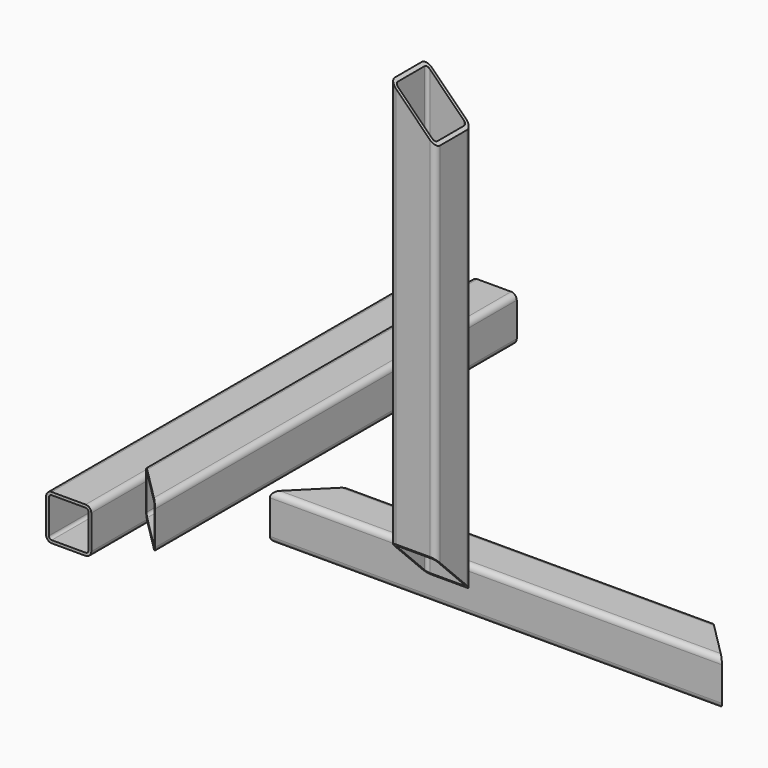
from build123d import *

# Parameters (mm, degrees)
F1_DEPTH  = 400
F3_DEPTH  = 400
F5_DEPTH  = 40
F7_DEPTH  = 40
F9_DEPTH  = 40
F11_DEPTH = 400
F13_DEPTH = 163.2715079019
F15_DEPTH = 400
F17_DEPTH = 274.6330855618
F19_DEPTH = 312.6438318024
F20_DEPTH = 400


with BuildPart() as f1:
    # F0 (on Front) → F1 (new body)
    with BuildSketch(Plane.XZ):
        with BuildLine():
            ThreePointArc((0, 5), (1.4644660941, 1.4644660941), (5, 0))
            Line((5, 0), (35, 0))
            ThreePointArc((35, 0), (38.5355339059, 1.4644660941), (40, 5))
            Line((40, 5), (40, 35))
            ThreePointArc((40, 35), (38.5355339059, 38.5355339059), (35, 40))
            Line((35, 40), (5, 40))
            ThreePointArc((5, 40), (1.4644660941, 38.5355339059), (0, 35))
            Line((0, 35), (0, 5))
        make_face()
        with BuildLine():
            Line((35, 2.5), (5, 2.5))
            ThreePointArc((5, 2.5), (3.232233047, 3.232233047), (2.5, 5))
            Line((2.5, 5), (2.5, 35))
            ThreePointArc((2.5, 35), (3.232233047, 36.767766953), (5, 37.5))
            Line((5, 37.5), (35, 37.5))
            ThreePointArc((35, 37.5), (36.767766953, 36.767766953), (37.5, 35))
            Line((37.5, 35), (37.5, 5))
            ThreePointArc((37.5, 5), (36.767766953, 3.232233047), (35, 2.5))
        make_face(mode=Mode.SUBTRACT)
    extrude(amount=F1_DEPTH)

    # F4 (on face) → F5 (cut)
    with BuildSketch(Plane.XY.offset(40)):
        Polygon((40, -400), (40, -360), (0, -400), align=None)
    extrude(amount=-F5_DEPTH, mode=Mode.SUBTRACT)

    # F6 (on face) → F7 (cut)
    with BuildSketch(Plane.YZ.offset(40)):
        Polygon((0, 40), (-40, 40), (0, 0), align=None)
    extrude(amount=-F7_DEPTH, mode=Mode.SUBTRACT)

    # F0 (on Front) → F20 (join)
    with BuildSketch(Plane.XZ):
        with BuildLine():
            ThreePointArc((0, 5), (1.4644660941, 1.4644660941), (5, 0))
            Line((5, 0), (35, 0))
            ThreePointArc((35, 0), (38.5355339059, 1.4644660941), (40, 5))
            Line((40, 5), (40, 35))
            ThreePointArc((40, 35), (38.5355339059, 38.5355339059), (35, 40))
            Line((35, 40), (5, 40))
            ThreePointArc((5, 40), (1.4644660941, 38.5355339059), (0, 35))
            Line((0, 35), (0, 5))
        make_face()
        with BuildLine():
            Line((35, 2.5), (5, 2.5))
            ThreePointArc((5, 2.5), (3.232233047, 3.232233047), (2.5, 5))
            Line((2.5, 5), (2.5, 35))
            ThreePointArc((2.5, 35), (3.232233047, 36.767766953), (5, 37.5))
            Line((5, 37.5), (35, 37.5))
            ThreePointArc((35, 37.5), (36.767766953, 36.767766953), (37.5, 35))
            Line((37.5, 35), (37.5, 5))
            ThreePointArc((37.5, 5), (36.767766953, 3.232233047), (35, 2.5))
        make_face(mode=Mode.SUBTRACT)
    extrude(amount=F20_DEPTH)


with BuildPart() as f3:
    # F2 (on Right) → F3 (new body)
    with BuildSketch(Plane.YZ):
        with BuildLine():
            ThreePointArc((-152.5273066759, -96.7268937826), (-151.0628405818, -100.2624276885), (-147.5273066759, -101.7268937826))
            Line((-147.5273066759, -101.7268937826), (-117.5273066759, -101.7268937826))
            ThreePointArc((-117.5273066759, -101.7268937826), (-113.99177277, -100.2624276885), (-112.5273066759, -96.7268937826))
            Line((-112.5273066759, -96.7268937826), (-112.5273066759, -66.7268937826))
            ThreePointArc((-112.5273066759, -66.7268937826), (-113.99177277, -63.1913598767), (-117.5273066759, -61.7268937826))
            Line((-117.5273066759, -61.7268937826), (-147.5273066759, -61.7268937826))
            ThreePointArc((-147.5273066759, -61.7268937826), (-151.0628405818, -63.1913598767), (-152.5273066759, -66.7268937826))
            Line((-152.5273066759, -66.7268937826), (-152.5273066759, -96.7268937826))
        make_face()
        with BuildLine():
            Line((-117.5273066759, -99.2268937826), (-147.5273066759, -99.2268937826))
            ThreePointArc((-147.5273066759, -99.2268937826), (-149.2950736289, -98.4946607356), (-150.0273066759, -96.7268937826))
            Line((-150.0273066759, -96.7268937826), (-150.0273066759, -66.7268937826))
            ThreePointArc((-150.0273066759, -66.7268937826), (-149.2950736289, -64.9591268296), (-147.5273066759, -64.2268937826))
            Line((-147.5273066759, -64.2268937826), (-117.5273066759, -64.2268937826))
            ThreePointArc((-117.5273066759, -64.2268937826), (-115.7595397229, -64.9591268296), (-115.0273066759, -66.7268937826))
            Line((-115.0273066759, -66.7268937826), (-115.0273066759, -96.7268937826))
            ThreePointArc((-115.0273066759, -96.7268937826), (-115.7595397229, -98.4946607356), (-117.5273066759, -99.2268937826))
        make_face(mode=Mode.SUBTRACT)
    extrude(amount=F3_DEPTH)

    # F8 (on face) → F9 (cut)
    with BuildSketch(Plane.XY.offset(-61.7268937826)):
        Polygon((40, -112.5273066759), (0, -112.5273066759), (0, -152.5273066759), align=None)
        Polygon((400, -112.5273066759), (360, -112.5273066759), (400, -152.5273066759), align=None)
    extrude(amount=-F9_DEPTH, mode=Mode.SUBTRACT)


with BuildPart() as f11:
    # F10 (on Front) → F11 (new body)
    with BuildSketch(Plane.XZ):
        with BuildLine():
            ThreePointArc((56.4591023326, 26.5436141193), (57.9235684267, 23.0080802134), (61.4591023326, 21.5436141193))
            Line((61.4591023326, 21.5436141193), (91.4591023326, 21.5436141193))
            ThreePointArc((91.4591023326, 21.5436141193), (94.9946362385, 23.0080802134), (96.4591023326, 26.5436141193))
            Line((96.4591023326, 26.5436141193), (96.4591023326, 56.5436141193))
            ThreePointArc((96.4591023326, 56.5436141193), (94.9946362385, 60.0791480252), (91.4591023326, 61.5436141193))
            Line((91.4591023326, 61.5436141193), (61.4591023326, 61.5436141193))
            ThreePointArc((61.4591023326, 61.5436141193), (57.9235684267, 60.0791480252), (56.4591023326, 56.5436141193))
            Line((56.4591023326, 56.5436141193), (56.4591023326, 26.5436141193))
        make_face()
        with BuildLine():
            Line((91.4591023326, 24.0436141193), (61.4591023326, 24.0436141193))
            ThreePointArc((61.4591023326, 24.0436141193), (59.6913353796, 24.7758471663), (58.9591023326, 26.5436141193))
            Line((58.9591023326, 26.5436141193), (58.9591023326, 56.5436141193))
            ThreePointArc((58.9591023326, 56.5436141193), (59.6913353796, 58.3113810723), (61.4591023326, 59.0436141193))
            Line((61.4591023326, 59.0436141193), (91.4591023326, 59.0436141193))
            ThreePointArc((91.4591023326, 59.0436141193), (93.2268692856, 58.3113810723), (93.9591023326, 56.5436141193))
            Line((93.9591023326, 56.5436141193), (93.9591023326, 26.5436141193))
            ThreePointArc((93.9591023326, 26.5436141193), (93.2268692856, 24.7758471663), (91.4591023326, 24.0436141193))
        make_face(mode=Mode.SUBTRACT)
    extrude(amount=F11_DEPTH)

    # F12 (on face) → F13 (cut, through all)
    with BuildSketch(Plane.XY.offset(61.5436141193)):
        Polygon((56.4591023326, -360), (56.4591023326, -400), (96.4591023326, -400), align=None)
    extrude(amount=-F13_DEPTH, mode=Mode.SUBTRACT)


with BuildPart() as f15:
    # F14 (on Top) → F15 (new body)
    with BuildSketch(Plane.XY):
        with BuildLine():
            ThreePointArc((234.6320855618, -307.6428318024), (236.0965516558, -311.1783657083), (239.6320855618, -312.6428318024))
            Line((239.6320855618, -312.6428318024), (269.6320855618, -312.6428318024))
            ThreePointArc((269.6320855618, -312.6428318024), (273.1676194677, -311.1783657083), (274.6320855618, -307.6428318024))
            Line((274.6320855618, -307.6428318024), (274.6320855618, -277.6428318024))
            ThreePointArc((274.6320855618, -277.6428318024), (273.1676194677, -274.1072978964), (269.6320855618, -272.6428318024))
            Line((269.6320855618, -272.6428318024), (239.6320855618, -272.6428318024))
            ThreePointArc((239.6320855618, -272.6428318024), (236.0965516558, -274.1072978964), (234.6320855618, -277.6428318024))
            Line((234.6320855618, -277.6428318024), (234.6320855618, -307.6428318024))
        make_face()
        with BuildLine():
            Line((269.6320855618, -310.1428318024), (239.6320855618, -310.1428318024))
            ThreePointArc((239.6320855618, -310.1428318024), (237.8643186088, -309.4105987553), (237.1320855618, -307.6428318024))
            Line((237.1320855618, -307.6428318024), (237.1320855618, -277.6428318024))
            ThreePointArc((237.1320855618, -277.6428318024), (237.8643186088, -275.8750648494), (239.6320855618, -275.1428318024))
            Line((239.6320855618, -275.1428318024), (269.6320855618, -275.1428318024))
            ThreePointArc((269.6320855618, -275.1428318024), (271.3998525147, -275.8750648494), (272.1320855618, -277.6428318024))
            Line((272.1320855618, -277.6428318024), (272.1320855618, -307.6428318024))
            ThreePointArc((272.1320855618, -307.6428318024), (271.3998525147, -309.4105987553), (269.6320855618, -310.1428318024))
        make_face(mode=Mode.SUBTRACT)
    extrude(amount=F15_DEPTH)

    # F16 (on face) → F17 (cut, through all)
    with BuildSketch(Plane.YZ.offset(274.6320855618)):
        Polygon((-312.6428318024, 40), (-312.6428318024, 0), (-272.6428318024, 0), align=None)
    extrude(amount=-F17_DEPTH, mode=Mode.SUBTRACT)

    # F18 (on face) → F19 (cut, through all)
    with BuildSketch(Plane.XZ.offset(312.6428318024)):
        Polygon((274.6320855618, 400), (234.6320855618, 400), (274.6320855618, 360), align=None)
    extrude(amount=-F19_DEPTH, mode=Mode.SUBTRACT)


solid = Compound([f1.part, f3.part, f11.part, f15.part])
